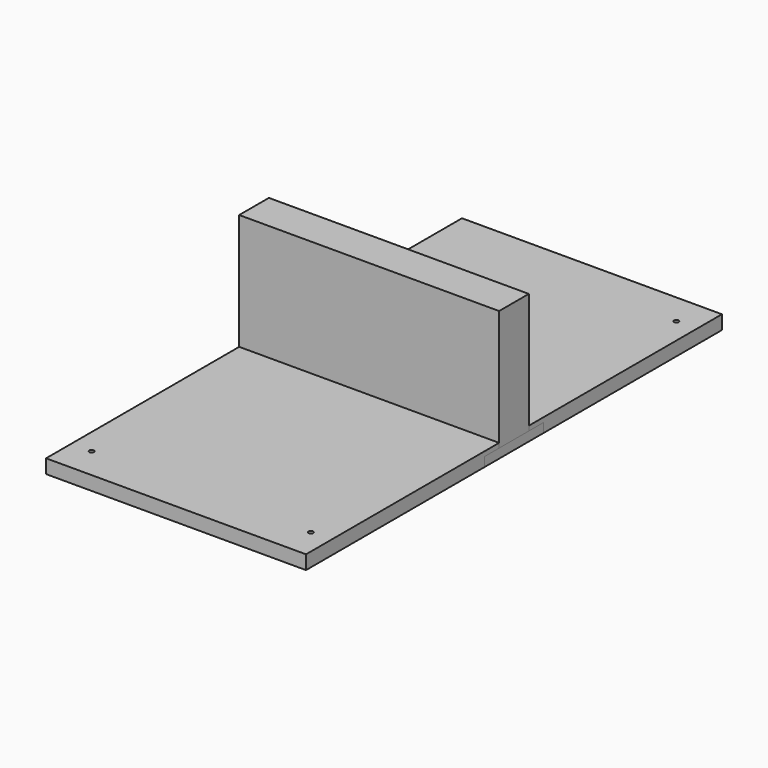
from build123d import *

# Parameters (mm, degrees)
F0_W      = 355.6
F0_H      = 711.2
F1_DEPTH  = 19.05
F2_W      = 355.6
F2_H      = 50.8
F3_DEPTH  = 177.8
F4_W      = 355.6
F4_H      = 101.6
F5_DEPTH  = 12.7
F6_R      = 12.7
F7_DEPTH  = 25.4
F9_D      = 6.35
F10_W     = 50.8
F10_H     = 101.6
F11_DEPTH = 3.175
F12_R     = 1.5875
F14_D     = 3.5052
F15_W     = 19.05
F15_H     = 25.4
F16_DEPTH = 1.5875
F17_R     = 5.08
F19_D     = 2.8448


with BuildPart() as f1:
    # F0 (on Top) → F1 (new body)
    with BuildSketch(Plane.XY):
        Rectangle(F0_W, F0_H)
    extrude(amount=F1_DEPTH)

    # F9 (through all)
    with Locations(Plane.XY.offset(19.05)):
        with Locations((-150, -312.5), (150, -312.5), (150, 312.5)):
            Hole(F9_D / 2)


with BuildPart() as f3:
    # F2 (on Top) → F3 (new body)
    with BuildSketch(Plane.XY):
        Rectangle(F2_W, F2_H)
    extrude(amount=F3_DEPTH)


with BuildPart() as f5:
    # F4 (on Top) → F5 (new body)
    with BuildSketch(Plane.XY):
        Rectangle(F4_W, F4_H)
    extrude(amount=F5_DEPTH)


with BuildPart() as f7:
    # F6 (on Top) → F7 (new body)
    with BuildSketch(Plane.XY):
        Circle(F6_R)
    extrude(amount=F7_DEPTH)


with BuildPart() as f11:
    # F10 (on face) → F11 (new body)
    with BuildSketch(Plane.XY):
        Rectangle(F10_W, F10_H)
    extrude(amount=F11_DEPTH)

    # F12
    f12_edges = [f11.edges().sort_by_distance(p)[0] for p in [
        (25.4, -50.8, 1.5875),
        (-25.4, -50.8, 1.5875),
        (25.4, 50.8, 1.5875),
        (-25.4, 50.8, 1.5875),
    ]]
    fillet(f12_edges, radius=F12_R)

    # F14 (through all)
    with Locations(Plane.XY.offset(3.175)):
        with Locations((22.225, -47.625), (-22.225, -47.625), (-22.225, 47.625), (22.225, 47.625)):
            Hole(F14_D / 2)


with BuildPart() as f16:
    # F15 (on Top) → F16 (new body)
    with BuildSketch(Plane.XY):
        Rectangle(F15_W, F15_H)
    extrude(amount=F16_DEPTH)

    # F17
    f17_edges = [f16.edges().sort_by_distance(p)[0] for p in [
        (9.525, -12.7, 0.79375),
        (-9.525, -12.7, 0.79375),
        (9.525, 12.7, 0.79375),
        (-9.525, 12.7, 0.79375),
    ]]
    fillet(f17_edges, radius=F17_R)

    # F19 (through all)
    with Locations(Plane.XY.offset(1.5875)):
        with Locations((0, 9.525), (0, -9.525)):
            Hole(F19_D / 2)


solid = Compound([f1.part, f3.part, f5.part, f7.part, f11.part, f16.part])
